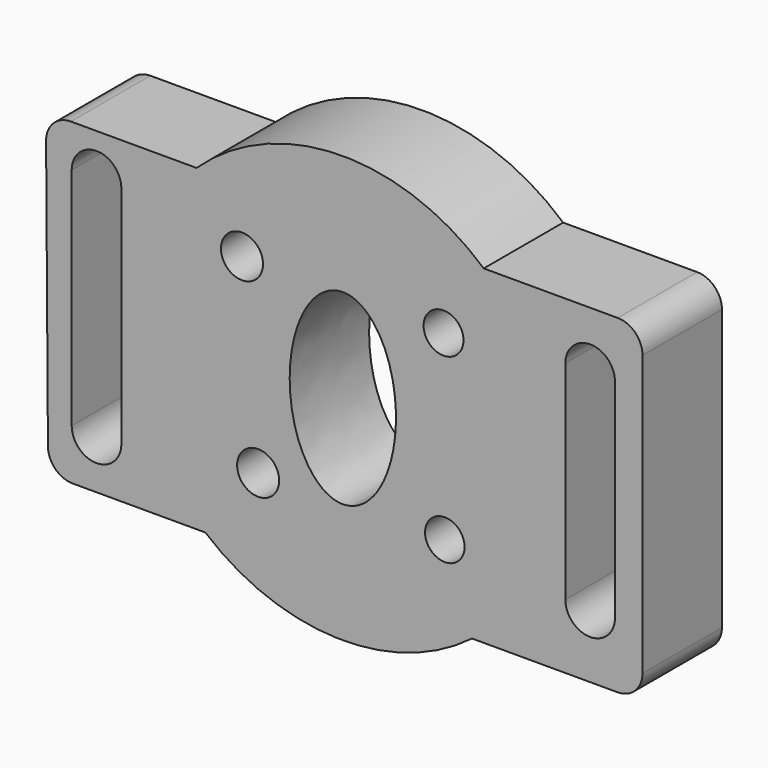
from build123d import *

# Parameters (mm, degrees)
F0_R     = 5.37582
F0_R_2   = 5.059078
F0_R_3   = 5.380898
F0_R_4   = 5.104772
F1_DEPTH = 25.4


with BuildPart() as f1:
    # F0 (on Front) → F1 (new body)
    with BuildSketch(Plane.XZ):
        with BuildLine():
            Line((70.319183, 40.939739), (36.050495, 40.939739))
            ThreePointArc((36.050495, 40.939739), (-0.936502, 54.541942), (-37.434726, 39.677976))
            Line((-37.434726, 39.677976), (-69.571538, 39.677976))
            ThreePointArc((-69.571538, 39.677976), (-74.077171, 37.802545), (-75.921387, 33.284046))
            Line((-75.921387, 33.284046), (-75.446226, -35.397891))
            ThreePointArc((-75.446226, -35.397891), (-73.570947, -39.859594), (-69.096378, -41.703961))
            Line((-69.096378, -41.703961), (-35.163618, -41.703961))
            ThreePointArc((-35.163618, -41.703961), (-1.349798, -54.533279), (33.057325, -43.392554))
            Line((33.057325, -43.392554), (70.319183, -43.392554))
            ThreePointArc((70.319183, -43.392554), (74.809311, -41.532682), (76.669183, -37.042554))
            Line((76.669183, -37.042554), (76.669183, 34.589739))
            ThreePointArc((76.669183, 34.589739), (74.809311, 39.079867), (70.319183, 40.939739))
        make_face()
        with Locations((-21.668151, -23.890361)):
            Circle(F0_R, mode=Mode.SUBTRACT)
        with Locations((26.095688, -23.39454)):
            Circle(F0_R_2, mode=Mode.SUBTRACT)
        with BuildLine():
            Line((56.932073, -26.865274), (56.932073, 26.352569))
            ThreePointArc((56.932073, 26.352569), (63.282073, 32.702569), (69.632073, 26.352569))
            Line((69.632073, 26.352569), (69.632073, -26.865274))
            ThreePointArc((69.632073, -26.865274), (63.282073, -33.215274), (56.932073, -26.865274))
        make_face(mode=Mode.SUBTRACT)
        with BuildLine():
            Line((-69.365789, -28.783619), (-69.365789, 28.833777))
            ThreePointArc((-69.365789, 28.833777), (-63.015789, 35.183777), (-56.665789, 28.833777))
            Line((-56.665789, 28.833777), (-56.665789, -28.783619))
            ThreePointArc((-56.665789, -28.783619), (-63.015789, -35.133619), (-69.365789, -28.783619))
        make_face(mode=Mode.SUBTRACT)
        with BuildLine():
            add(Edge.make_bspline(
                [(0, -23.890361), (23.545601, -23.890361), (11.772801, 11.945181), (0, 47.780722), (-11.772801, 11.945181), (-23.545601, -23.890361), (0, -23.890361)],
                knots=[0, 0, 0, 2.094395, 2.094395, 4.18879, 4.18879, 6.283185, 6.283185, 6.283185], degree=2, weights=[1, 0.5, 1, 0.5, 1, 0.5, 1]))
        make_face(mode=Mode.SUBTRACT)
        with Locations((-25.799975, 23.542933)):
            Circle(F0_R_3, mode=Mode.SUBTRACT)
        with Locations((25.765136, 23.047112)):
            Circle(F0_R_4, mode=Mode.SUBTRACT)
    extrude(amount=F1_DEPTH)


solid = f1.part
